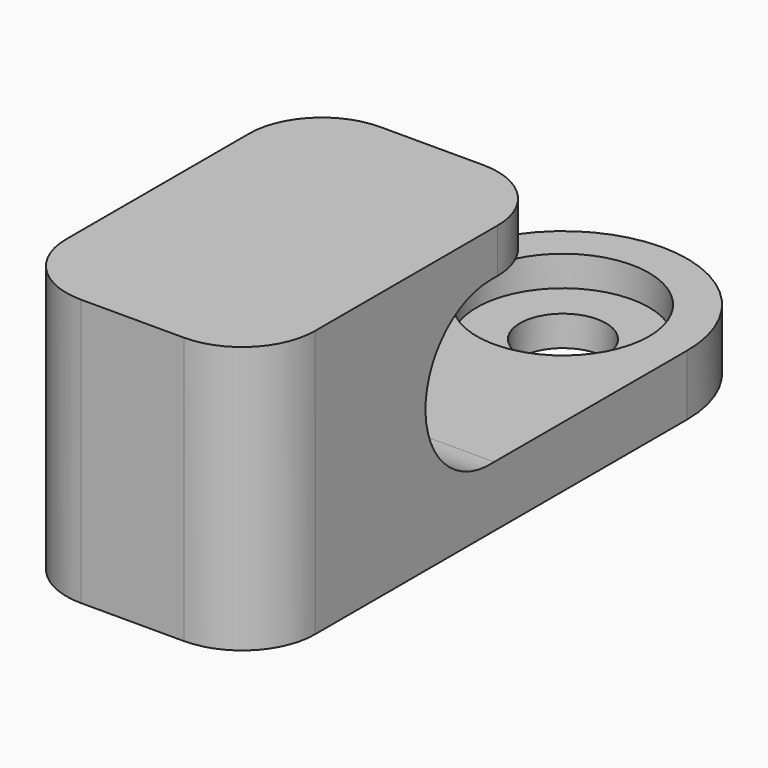
from build123d import *

# Parameters (mm, degrees)
F0_R     = 4.5
F1_DEPTH = 3.175
F0_R_2   = 2.25
F2_DEPTH = 1.5875
F3_DEPTH = 13.97
F4_W     = 8.5852
F4_H     = 8.4761770735
F5_DEPTH = 25.4
F6_R     = 3.81


with BuildPart() as f1:
    # F0 (on Top) → F1 (new body)
    with BuildSketch(Plane.XY):
        with BuildLine():
            Line((6.5, -8.5852), (6.5, 0))
            ThreePointArc((6.5, 0), (0, -6.5), (-6.5, 0))
            Line((-6.5, 0), (-6.5, -8.5852))
            Line((-6.5, -8.5852), (6.5, -8.5852))
        make_face()
        with BuildLine():
            ThreePointArc((-6.5, 0), (0, -6.5), (6.5, 0))
            ThreePointArc((6.5, 0), (0, 6.5), (-6.5, 0))
        make_face()
        Circle(F0_R, mode=Mode.SUBTRACT)
    extrude(amount=F1_DEPTH)

    # F0 (on Top) → F2 (join)
    with BuildSketch(Plane.XY):
        Circle(F0_R)
        Circle(F0_R_2, mode=Mode.SUBTRACT)
    extrude(amount=F2_DEPTH)

    # F0 (on Top) → F3 (join)
    with BuildSketch(Plane.XY):
        with BuildLine():
            Line((6.5, -24.3332), (6.5, -8.5852))
            Line((6.5, -8.5852), (-6.5, -8.5852))
            Line((-6.5, -8.5852), (-6.5, -24.3332))
            ThreePointArc((-6.5, -24.3332), (-5.3840768363, -27.0272768363), (-2.69, -28.1432))
            Line((-2.69, -28.1432), (2.69, -28.1432))
            ThreePointArc((2.69, -28.1432), (5.3840768363, -27.0272768363), (6.5, -24.3332))
        make_face()
    extrude(amount=F3_DEPTH)

    # F4 (on face) → F5 (cut)
    with BuildSketch(Plane.YZ.offset(6.5)):
        with BuildLine():
            ThreePointArc((-12.6179837447, 3.175), (-9.7820030962, 4.5000062934), (-8.6270184297, 7.4093770735))
            ThreePointArc((-8.6270184297, 7.4093770735), (-9.8694128853, 10.408782618), (-12.8688184297, 11.6511770735))
            Line((-12.8688184297, 11.6511770735), (-12.8688184297, 3.175))
            Line((-12.8688184297, 3.175), (-12.6179837447, 3.175))
        make_face()
        with BuildLine():
            Line((-12.8688184297, 3.175), (-12.8688184297, 11.6511770735))
            ThreePointArc((-12.8688184297, 11.6511770735), (-17.108762292, 7.2839048265), (-12.6179837447, 3.175))
            Line((-12.6179837447, 3.175), (-12.8688184297, 3.175))
        make_face()
        with BuildLine():
            ThreePointArc((-12.6179837447, 3.175), (-9.7820030962, 4.5000062934), (-8.6270184297, 7.4093770735))
            ThreePointArc((-8.6270184297, 7.4093770735), (-9.8694128853, 10.408782618), (-12.8688184297, 11.6511770735))
            Line((-12.8688184297, 11.6511770735), (-12.8688184297, 3.175))
            Line((-12.8688184297, 3.175), (-12.6179837447, 3.175))
        make_face()
        with Locations((-4.2926, 7.4130885368)):
            Rectangle(F4_W, F4_H)
        with BuildLine():
            ThreePointArc((-12.8688184297, 11.6511770735), (-9.8694128853, 10.408782618), (-8.6270184297, 7.4093770735))
            ThreePointArc((-8.6270184297, 7.4093770735), (-9.7820030962, 4.5000062934), (-12.6179837447, 3.175))
            Line((-12.6179837447, 3.175), (-8.5852, 3.175))
            Line((-8.5852, 3.175), (-8.5852, 11.6511770735))
            Line((-8.5852, 11.6511770735), (-12.8688184297, 11.6511770735))
        make_face()
    extrude(amount=-F5_DEPTH, mode=Mode.SUBTRACT)

    # F6
    f6_edges = [f1.edges().sort_by_distance(p)[0] for p in [
        (6.5, -8.5852, 12.810589),
        (-6.5, -8.5852, 12.810589),
    ]]
    fillet(f6_edges, radius=F6_R)


solid = f1.part
